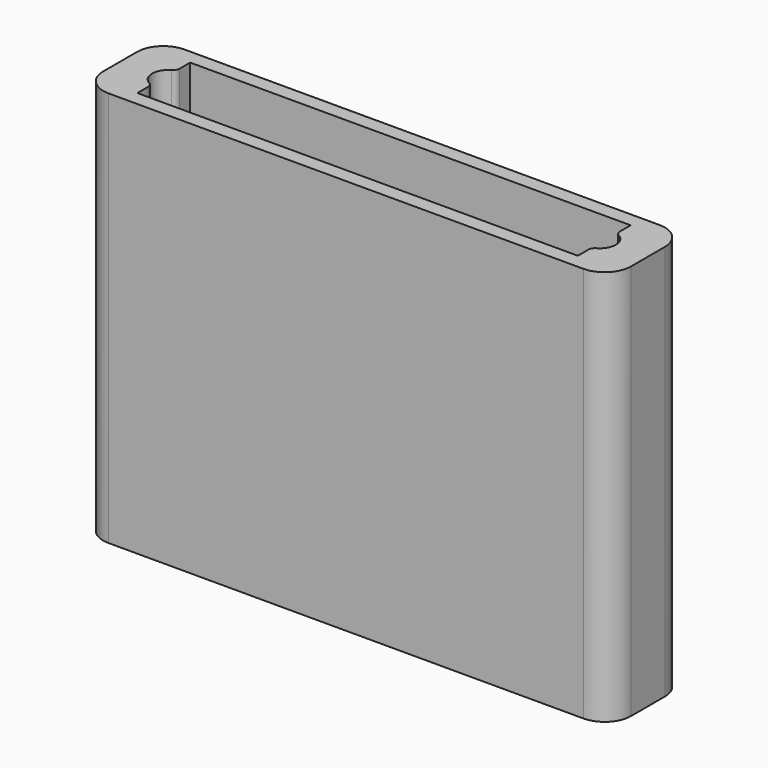
from build123d import *

# Parameters (mm, degrees)
F0_W     = 101.6
F0_H     = 18.288
F1_DEPTH = 12.7
F2_W     = 101.6
F2_H     = 18.288
F4_DEPTH = 25.4
F3_W     = 101.6
F3_H     = 18.288
F5_DEPTH = 25.4
F6_R     = 1.27
F7_R     = 5.08


with BuildPart() as f1:
    # F0 (on Top) → F1 (new body, symmetric)
    with BuildSketch(Plane.XY):
        Rectangle(F0_W, F0_H)
    extrude(amount=F1_DEPTH, both=True)

    # F2 (on face) → F4 (join)
    with BuildSketch(Plane(origin=(0, 0, -12.7), x_dir=(1, 0, 0), z_dir=(0, 0, -1))):
        Rectangle(F2_W, F2_H)
        with BuildLine():
            Line((-42.3926, 2.956892), (-42.3926, 6.35))
            Line((-42.3926, 6.35), (42.3926, 6.35))
            Line((42.3926, 6.35), (42.3926, 2.956892))
            ThreePointArc((42.3926, 2.956892), (44.6278, 0), (42.3926, -2.956892))
            Line((42.3926, -2.956892), (42.3926, -6.35))
            Line((42.3926, -6.35), (-42.3926, -6.35))
            Line((-42.3926, -6.35), (-42.3926, -2.956892))
            ThreePointArc((-42.3926, -2.956892), (-44.6278, 0), (-42.3926, 2.956892))
        make_face(mode=Mode.SUBTRACT)
    extrude(amount=F4_DEPTH)

    # F3 (on face) → F5 (join)
    with BuildSketch(Plane.XY.offset(12.7)):
        Rectangle(F3_W, F3_H)
        with BuildLine():
            Line((-42.3926, 2.956892), (-42.3926, 6.35))
            Line((-42.3926, 6.35), (42.3926, 6.35))
            Line((42.3926, 6.35), (42.3926, 2.956892))
            ThreePointArc((42.3926, 2.956892), (44.6278, 0), (42.3926, -2.956892))
            Line((42.3926, -2.956892), (42.3926, -6.35))
            Line((42.3926, -6.35), (-42.3926, -6.35))
            Line((-42.3926, -6.35), (-42.3926, -2.956892))
            ThreePointArc((-42.3926, -2.956892), (-44.6278, 0), (-42.3926, 2.956892))
        make_face(mode=Mode.SUBTRACT)
    extrude(amount=F5_DEPTH)

    # F6
    f6_edges = [f1.edges().sort_by_distance(p)[0] for p in [
        (-42.3926, -2.956892, -25.4),
        (-42.3926, 2.956892, -25.4),
        (42.3926, -2.956892, -25.4),
        (42.3926, 2.956892, -25.4),
        (42.3926, -2.956892, 25.4),
        (42.3926, 2.956892, 25.4),
        (-42.3926, -2.956892, 25.4),
        (-42.3926, 2.956892, 25.4),
    ]]
    fillet(f6_edges, radius=F6_R)

    # F7
    f7_edges = [f1.edges().sort_by_distance(p)[0] for p in [
        (50.8, -9.144, 0),
        (50.8, 9.144, 0),
        (-50.8, -9.144, 0),
        (-50.8, 9.144, 0),
    ]]
    fillet(f7_edges, radius=F7_R)


solid = f1.part
